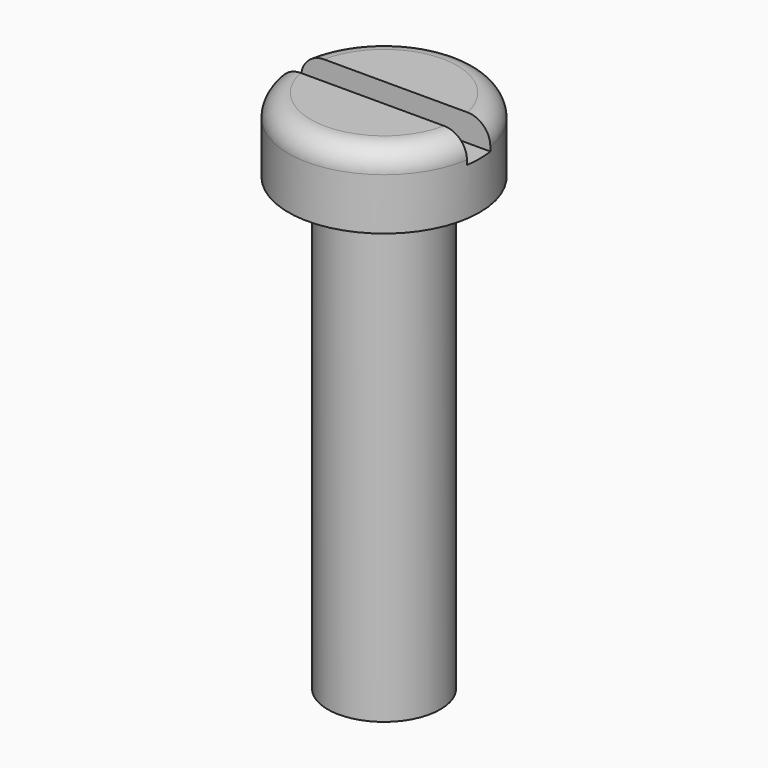
from build123d import *

# Parameters (mm, degrees)
F0_R     = 4.25
F1_DEPTH = 3.3
F2_R     = 2.5
F3_DEPTH = 20
F4_W     = 12.181458
F4_H     = 1.3
F5_DEPTH = 1.2
F6_R     = 1


with BuildPart() as f1:
    # F0 (on Top) → F1 (new body)
    with BuildSketch(Plane.XY):
        Circle(F0_R)
    extrude(amount=F1_DEPTH)

    # F2 (on face) → F3 (join)
    with BuildSketch(Plane(origin=(0, 0, 0), x_dir=(1, 0, 0), z_dir=(0, 0, -1))):
        Circle(F2_R)
    extrude(amount=F3_DEPTH)

    # F4 (on face) → F5 (cut)
    with BuildSketch(Plane.XY.offset(3.3)):
        Rectangle(F4_W, F4_H)
    extrude(amount=-F5_DEPTH, mode=Mode.SUBTRACT)

    # F6
    f6_edges = [f1.edges().sort_by_distance(p)[0] for p in [
        (0, -4.25, 3.3),
        (0, 4.25, 3.3),
    ]]
    fillet(f6_edges, radius=F6_R)


solid = f1.part
